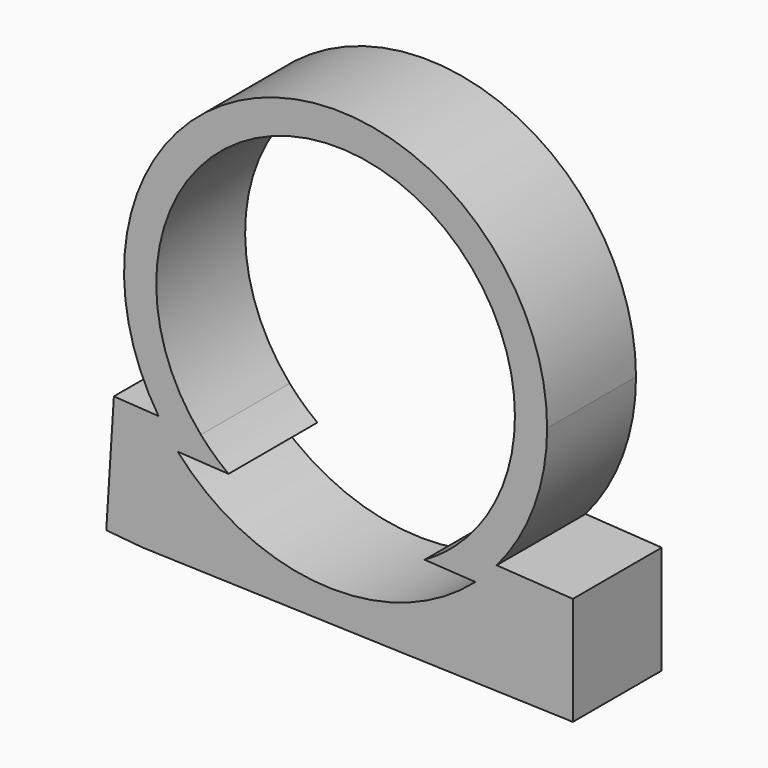
from build123d import *

# Parameters (mm, degrees)
F1_DEPTH = 25


with BuildPart() as f1:
    # F0 (on Front) → F1 (new body)
    with BuildSketch(Plane.XZ):
        with BuildLine():
            ThreePointArc((36.2469626396, -30.8551263557), (44.6726015645, -16.4389717586), (47.6012722837, 0))
            ThreePointArc((47.6012722837, 0), (-13.5855944679, 45.6214066637), (-39.8465057326, -26.0410657218))
            Line((-39.8465057326, -26.0410657218), (-30.3098299988, -26.6444044342))
            ThreePointArc((-30.3098299988, -26.6444044342), (-14.2377197292, 37.7610569121), (40.3560414586, 0))
            ThreePointArc((40.3560414586, 0), (36.786760716, -16.5935022895), (26.7102869059, -30.2517876433))
            Line((26.7102869059, -30.2517876433), (36.2469626396, -30.8551263557))
        make_face()
        with BuildLine():
            Line((-30.3098299988, -26.6444044342), (-39.8465057326, -26.0410657218))
            ThreePointArc((-39.8465057326, -26.0410657218), (-37.7906379863, -28.9438906094), (-35.5237422419, -31.6850889245))
            Line((-35.5237422419, -31.6850889245), (-24.0948598989, -32.3735665113))
            ThreePointArc((-24.0948598989, -32.3735665113), (-27.3527584577, -29.6721533928), (-30.3098299988, -26.6444044342))
        make_face()
        with BuildLine():
            ThreePointArc((-35.5237422419, -31.6850889245), (-37.7906379863, -28.9438906094), (-39.8465057326, -26.0410657218))
            Line((-39.8465057326, -26.0410657218), (-49.8878657818, -25.4057981074))
            Line((-49.8878657818, -25.4057981074), (-51.600495318, -52.4764836175))
            Line((-51.600495318, -52.4764836175), (-43.5246899724, -53.2448738813))
            Line((-43.5246899724, -53.2448738813), (53.390578526, -56.3114721632))
            Line((53.390578526, -56.3114721632), (53.390578526, -31.9397188723))
            Line((53.390578526, -31.9397188723), (36.2469626396, -30.8551263557))
            ThreePointArc((36.2469626396, -30.8551263557), (33.9423793102, -33.3735825135), (31.4632258432, -35.7203939306))
            Line((31.4632258432, -35.7203939306), (46.3248193264, -36.6156585515))
            Line((46.3248193264, -36.6156585515), (46.3248193264, -51.7858378589))
            Line((46.3248193264, -51.7858378589), (-43.5246899724, -46.4044213295))
            Line((-43.5246899724, -46.4044213295), (-43.0446043611, -31.2320310622))
            Line((-43.0446043611, -31.2320310622), (-35.5237422419, -31.6850889245))
        make_face()
        with BuildLine():
            ThreePointArc((31.4632258432, -35.7203939306), (33.9423793102, -33.3735825135), (36.2469626396, -30.8551263557))
            Line((36.2469626396, -30.8551263557), (26.7102869059, -30.2517876433))
            ThreePointArc((26.7102869059, -30.2517876433), (23.494201956, -32.8120794321), (20.0343435002, -35.0319163439))
            Line((20.0343435002, -35.0319163439), (31.4632258432, -35.7203939306))
        make_face()
        with BuildLine():
            ThreePointArc((31.4632258432, -35.7203939306), (-2.8623189863, -47.5151370938), (-35.5237422419, -31.6850889245))
            Line((-35.5237422419, -31.6850889245), (-43.0446043611, -31.2320310622))
            Line((-43.0446043611, -31.2320310622), (-43.5246899724, -46.4044213295))
            Line((-43.5246899724, -46.4044213295), (46.3248193264, -51.7858378589))
            Line((46.3248193264, -51.7858378589), (46.3248193264, -36.6156585515))
            Line((46.3248193264, -36.6156585515), (31.4632258432, -35.7203939306))
        make_face()
    extrude(amount=F1_DEPTH)


solid = f1.part
